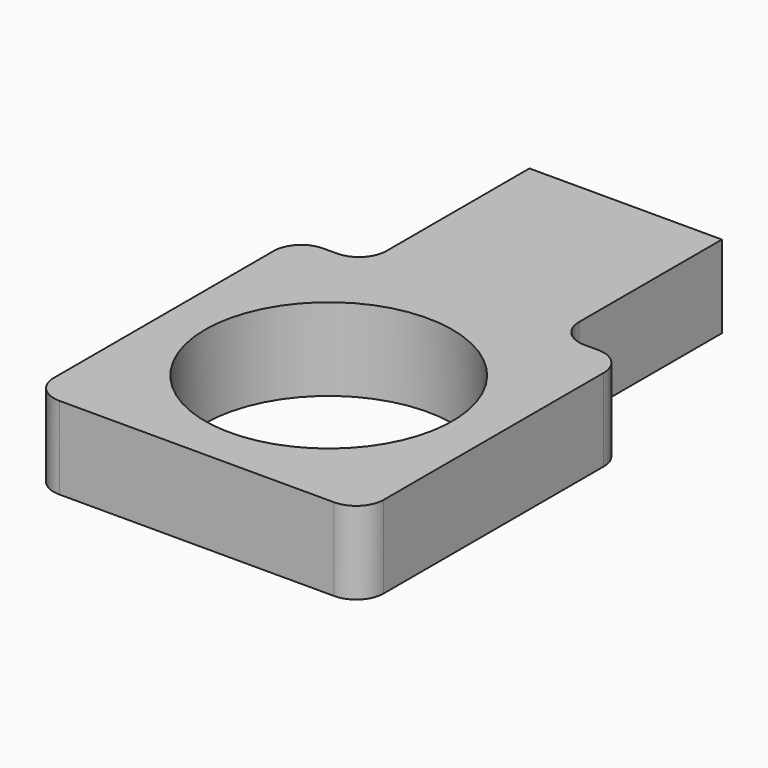
from build123d import *

# Parameters (mm, degrees)
F0_W          = 14
F0_H          = 6
F0_W_2        = 10
F0_H_2        = 2
F1_DEPTH      = 15
F2_W          = 24
F2_H          = 24
F3_DEPTH      = 4
F3_DEPTH_BACK = 2
F5_D          = 18
F6_R          = 2
F7_D          = 2.2606
F7_DEPTH      = 2.3
F7_TIP        = 0.6791527577


with BuildPart() as f1:
    # F0 (on Front) → F1 (new body)
    with BuildSketch(Plane.XZ):
        with Locations((0, 1)):
            Rectangle(F0_W, F0_H)
        with Locations((0, 1)):
            Rectangle(F0_W_2, F0_H_2, mode=Mode.SUBTRACT)
    extrude(amount=F1_DEPTH)

    # F2 (on Top) → F3 (join, two sides)
    with BuildSketch(Plane.XY) as f3_sk:
        with Locations((0, -27)):
            Rectangle(F2_W, F2_H)
    extrude(amount=F3_DEPTH)
    extrude(f3_sk.sketch, amount=-F3_DEPTH_BACK)

    # F5 (through all)
    with Locations(Plane(origin=(0, 0, -2), x_dir=(1, 0, 0), z_dir=(0, 0, -1))):
        with Locations((0, 27)):
            Hole(F5_D / 2)

    # F6
    f6_edges = [f1.edges().sort_by_distance(p)[0] for p in [
        (12, -39, 1),
        (12, -15, 1),
        (7, -15, 1),
        (-12, -39, 1),
        (-12, -15, 1),
        (-7, -15, 1),
    ]]
    fillet(f6_edges, radius=F6_R)

    # F7
    with Locations(Plane(origin=(0, 0, -2), x_dir=(1, 0, 0), z_dir=(0, 0, -1))):
        with Locations((0, 7.5)):
            Hole(F7_D / 2, depth=F7_DEPTH)
            with Locations((0, 0, -(F7_DEPTH + F7_TIP / 2))):  # 118° drill point
                Cone(0, F7_D / 2, F7_TIP, mode=Mode.SUBTRACT)


solid = f1.part
